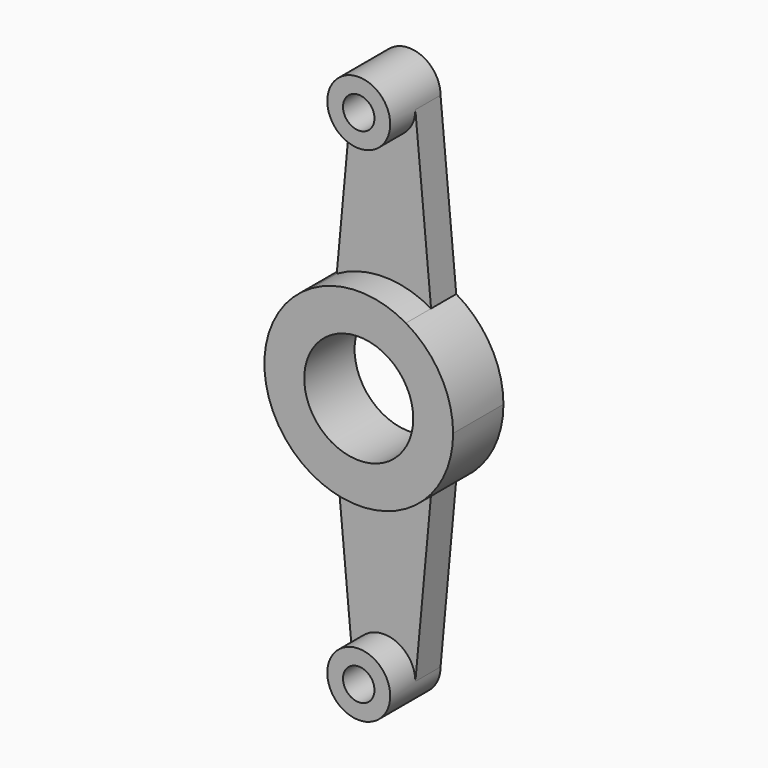
from build123d import *

# Parameters (mm, degrees)
F0_R     = 11
F0_R_2   = 3.175
F1_DEPTH = 6.35
F2_DEPTH = 12.7


with BuildPart() as f1:
    # F0 (on Front) → F1 (new body)
    with BuildSketch(Plane.XZ):
        with BuildLine():
            ThreePointArc((9.521354, -16.499888), (16.496731, -9.526823), (19.05, 0))
            ThreePointArc((19.05, 0), (16.496731, 9.526823), (9.521354, 16.499888))
            ThreePointArc((9.521354, 16.499888), (0, 19.05), (-9.521354, 16.499888))
            ThreePointArc((-9.521354, 16.499888), (-19.05, 0), (-9.521354, -16.499888))
            ThreePointArc((-9.521354, -16.499888), (0, -19.05), (9.521354, -16.499888))
        make_face()
        Circle(F0_R, mode=Mode.SUBTRACT)
        with BuildLine():
            ThreePointArc((-9.521354, 16.499888), (0, 19.05), (9.521354, 16.499888))
            Line((9.521354, 16.499888), (6.35, 50.8))
            ThreePointArc((6.35, 50.8), (0, 44.45), (-6.35, 50.8))
            Line((-6.35, 50.8), (-9.521354, 16.499888))
        make_face()
        with BuildLine():
            Line((6.35, -50.8), (9.521354, -16.499888))
            ThreePointArc((9.521354, -16.499888), (0, -19.05), (-9.521354, -16.499888))
            Line((-9.521354, -16.499888), (-6.35, -50.8))
            ThreePointArc((-6.35, -50.8), (0, -44.45), (6.35, -50.8))
        make_face()
        with BuildLine():
            ThreePointArc((-6.35, 50.8), (0, 44.45), (6.35, 50.8))
            ThreePointArc((6.35, 50.8), (0, 57.15), (-6.35, 50.8))
        make_face()
        with Locations((0, 50.8)):
            Circle(F0_R_2, mode=Mode.SUBTRACT)
        with BuildLine():
            ThreePointArc((-6.35, -50.8), (0, -57.15), (6.35, -50.8))
            ThreePointArc((6.35, -50.8), (0, -44.45), (-6.35, -50.8))
        make_face()
        with Locations((0, -50.8)):
            Circle(F0_R_2, mode=Mode.SUBTRACT)
    extrude(amount=F1_DEPTH)

    # F0 (on Front) → F2 (join)
    with BuildSketch(Plane.XZ):
        with BuildLine():
            ThreePointArc((-6.35, 50.8), (0, 44.45), (6.35, 50.8))
            ThreePointArc((6.35, 50.8), (0, 57.15), (-6.35, 50.8))
        make_face()
        with Locations((0, 50.8)):
            Circle(F0_R_2, mode=Mode.SUBTRACT)
        with BuildLine():
            ThreePointArc((9.521354, -16.499888), (16.496731, -9.526823), (19.05, 0))
            ThreePointArc((19.05, 0), (16.496731, 9.526823), (9.521354, 16.499888))
            ThreePointArc((9.521354, 16.499888), (0, 19.05), (-9.521354, 16.499888))
            ThreePointArc((-9.521354, 16.499888), (-19.05, 0), (-9.521354, -16.499888))
            ThreePointArc((-9.521354, -16.499888), (0, -19.05), (9.521354, -16.499888))
        make_face()
        Circle(F0_R, mode=Mode.SUBTRACT)
        with BuildLine():
            ThreePointArc((-6.35, -50.8), (0, -57.15), (6.35, -50.8))
            ThreePointArc((6.35, -50.8), (0, -44.45), (-6.35, -50.8))
        make_face()
        with Locations((0, -50.8)):
            Circle(F0_R_2, mode=Mode.SUBTRACT)
    extrude(amount=F2_DEPTH)


solid = f1.part
